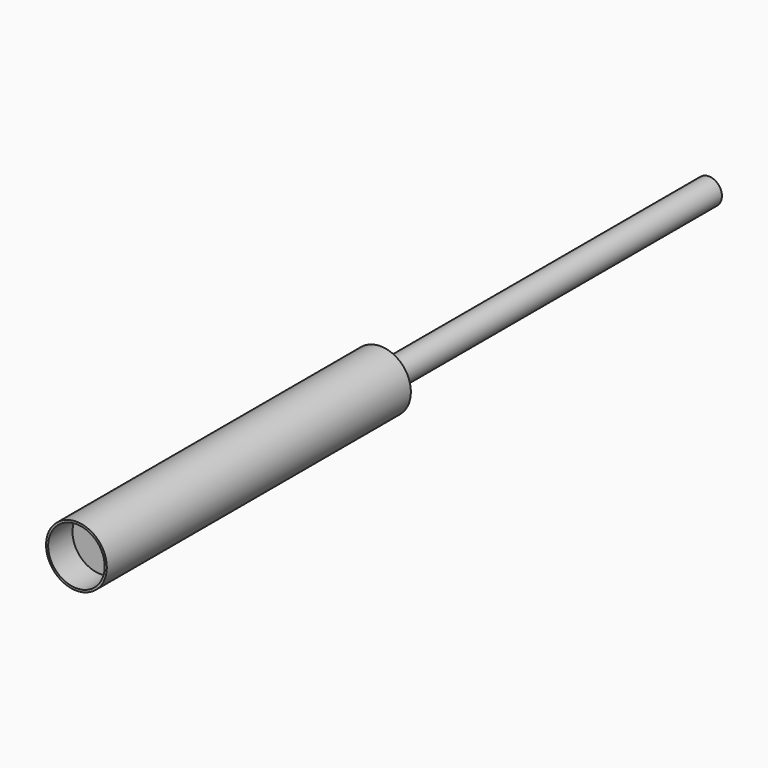
from build123d import *

# Parameters (mm, degrees)
F0_R     = 25.4
F1_DEPTH = 317.5
F2_R     = 23.622
F3_DEPTH = 25.4
F4_R     = 10.922
F5_DEPTH = 342.9


with BuildPart() as f1:
    # F0 (on Front) → F1 (new body)
    with BuildSketch(Plane.XZ):
        Circle(F0_R)
    extrude(amount=F1_DEPTH)

    # F2 (on face) → F3 (cut)
    with BuildSketch(Plane.XZ.offset(317.5)):
        Circle(F2_R)
    extrude(amount=-F3_DEPTH, mode=Mode.SUBTRACT)

    # F4 (on Front) → F5 (join)
    with BuildSketch(Plane.XZ):
        Circle(F4_R)
    extrude(amount=-F5_DEPTH)


solid = f1.part
